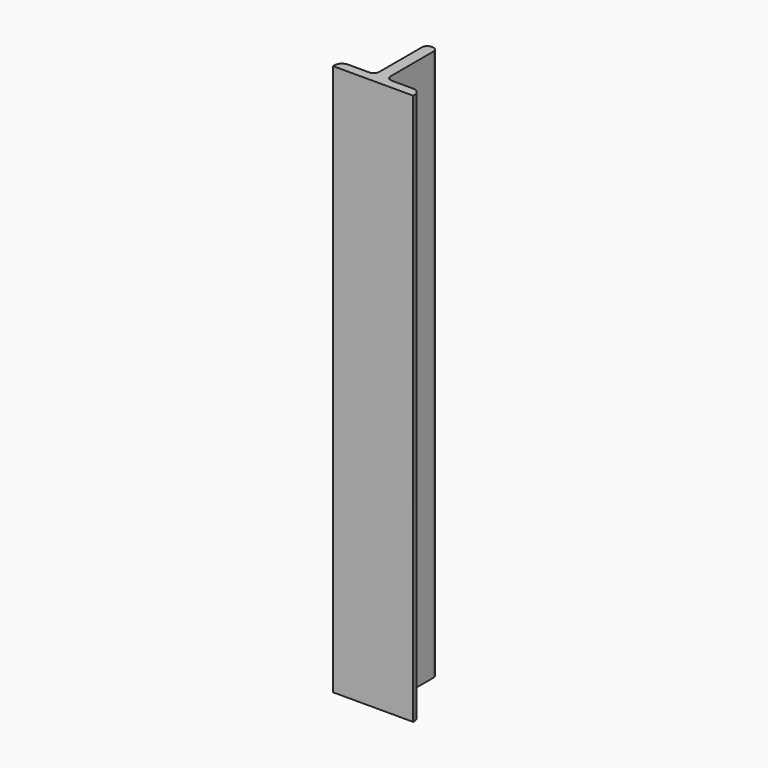
from build123d import *

# Parameters (mm, degrees)
PAD_DEPTH = 150


with BuildPart() as part:
    # Sketch001 → Pad (new body)
    with BuildSketch(Plane.XY):
        with BuildLine():
            Line((-38.093584, -18.453745), (-32.287479, -18.453745))
            ThreePointArc((-32.287479, -18.453745), (-31.259526, -18.027953), (-30.833734, -17))
            Line((-30.833734, -17), (-30.833734, -2.438641))
            ThreePointArc((-29.37999, -0.984896), (-30.407943, -1.410688), (-30.833734, -2.438641))
            Line((-29.37999, -0.984896), (-29.155547, -0.984896))
            ThreePointArc((-27.701803, -2.438641), (-28.127595, -1.410688), (-29.155547, -0.984896))
            Line((-27.701803, -2.438641), (-27.701803, -17))
            ThreePointArc((-27.701803, -17), (-27.276011, -18.027953), (-26.248058, -18.453745))
            Line((-26.248058, -18.453745), (-20.441954, -18.453745))
            ThreePointArc((-18.368877, -20.526822), (-18.976067, -19.060935), (-20.441954, -18.453745))
            Line((-18.368877, -20.998255), (-18.368877, -20.526822))
            Line((-18.368877, -20.998255), (-40.16666, -20.998255))
            Line((-40.16666, -20.998255), (-40.16666, -20.526822))
            ThreePointArc((-38.093584, -18.453745), (-39.55947, -19.060935), (-40.16666, -20.526822))
        make_face()
    extrude(amount=PAD_DEPTH)


solid = part.part
